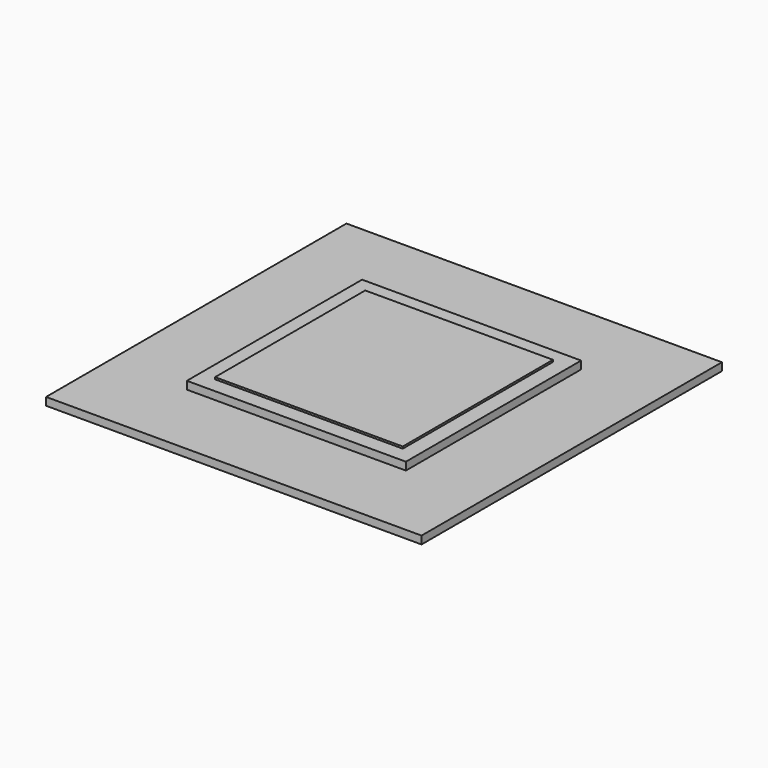
from build123d import *

# Parameters (mm, degrees)
F0_W     = 304.8
F0_H     = 304.8
F1_DEPTH = 6.35
F2_W     = 177.8
F2_H     = 177.8
F3_DEPTH = 12.7
F4_W     = 152.4
F4_H     = 152.4
F5_DEPTH = 1.5748


with BuildPart() as f1:
    # F0 (on Top) → F1 (new body)
    with BuildSketch(Plane.XY):
        Rectangle(F0_W, F0_H)
    extrude(amount=F1_DEPTH)


with BuildPart() as f3:
    # F2 (on Top) → F3 (new body)
    with BuildSketch(Plane.XY):
        Rectangle(F2_W, F2_H)
    extrude(amount=F3_DEPTH)


with BuildPart() as f5:
    # F4 (on face) → F5 (new body)
    with BuildSketch(Plane.XY.offset(12.7)):
        Rectangle(F4_W, F4_H)
    extrude(amount=F5_DEPTH)


solid = Compound([f1.part, f3.part, f5.part])
